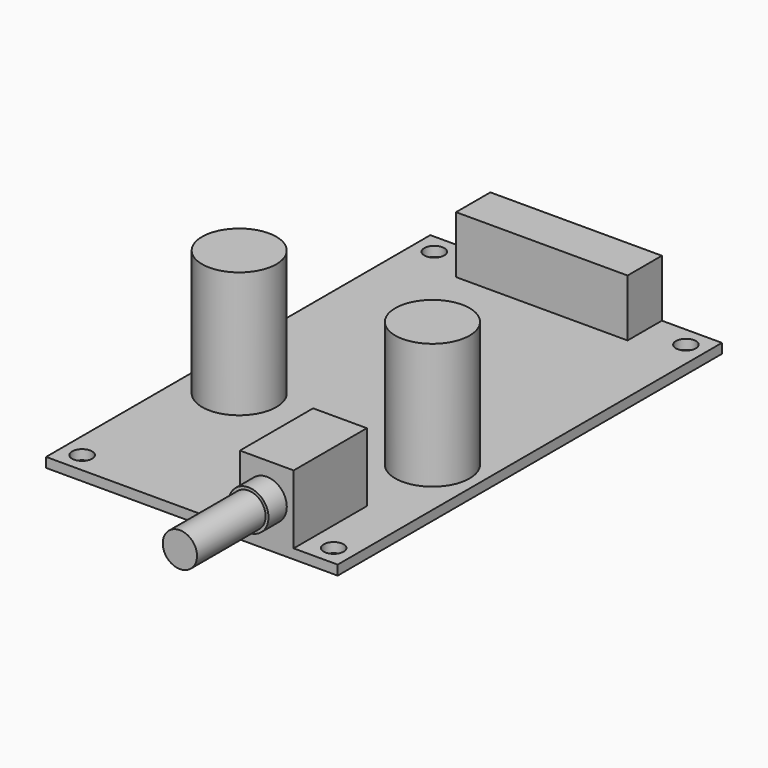
from build123d import *

# Parameters (mm, degrees)
F0_W      = 51
F0_H      = 84
F0_R      = 1.75
F1_DEPTH  = 1.7
F2_W      = 9.4
F2_H      = 16
F3_DEPTH  = 12
F4_R      = 3.5
F5_DEPTH  = 19
F6_R      = 6.5
F7_DEPTH  = 22
F8_W      = 30
F8_H      = 7.5
F9_DEPTH  = 10
F10_R     = 5.9425868451
F10_R_2   = 3
F11_DEPTH = 15


with BuildPart() as f1:
    # F0 (on Top) → F1 (new body)
    with BuildSketch(Plane.XY):
        Rectangle(F0_W, F0_H)
        with Locations((-22, -38.5)):
            Circle(F0_R, mode=Mode.SUBTRACT)
        with Locations((22, -38.5)):
            Circle(F0_R, mode=Mode.SUBTRACT)
        with Locations((-22, 38.5)):
            Circle(F0_R, mode=Mode.SUBTRACT)
        with Locations((22, 38.5)):
            Circle(F0_R, mode=Mode.SUBTRACT)
    extrude(amount=F1_DEPTH)

    # F2 (on face) → F3 (join)
    with BuildSketch(Plane.XY.offset(1.7)):
        with Locations((13.1, -34)):
            Rectangle(F2_W, F2_H)
    extrude(amount=F3_DEPTH)

    # F4 (on face) → F5 (join)
    with BuildSketch(Plane.XZ.offset(42)):
        with Locations((13.1, 7.7)):
            Circle(F4_R)
    extrude(amount=F5_DEPTH)

    # F6 (on face) → F7 (join)
    with BuildSketch(Plane.XY.offset(1.7)):
        with Locations((17.1509794891, -10.8471838757)):
            Circle(F6_R)
        with Locations((-16.6441705078, -10.8471838757)):
            Circle(F6_R)
    extrude(amount=F7_DEPTH)

    # F8 (on face) → F9 (join)
    with BuildSketch(Plane.XY.offset(1.7)):
        with Locations((0, 38.25)):
            Rectangle(F8_W, F8_H)
    extrude(amount=F9_DEPTH)

    # F10 (on face) → F11 (cut)
    with BuildSketch(Plane.XZ.offset(61)):
        with Locations((13.1, 7.7)):
            Circle(F10_R)
        with Locations((13.1, 7.7)):
            Circle(F10_R_2, mode=Mode.SUBTRACT)
    extrude(amount=-F11_DEPTH, mode=Mode.SUBTRACT)


solid = f1.part
